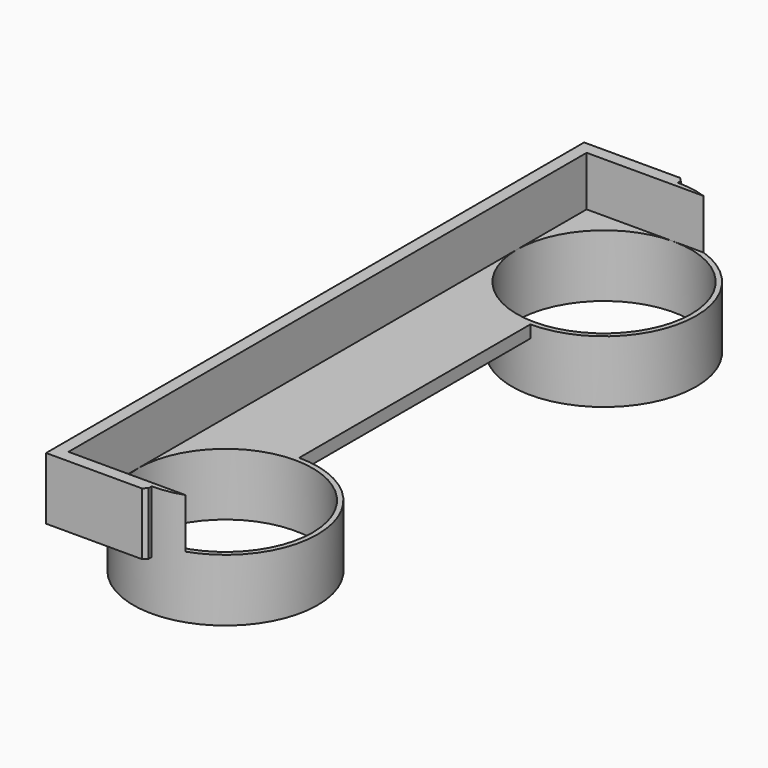
from build123d import *

# Parameters (mm, degrees)
CYLINDER002_R     = 35
CYLINDER002_DEPTH = 50
CYLINDER001_R     = 35
CYLINDER001_DEPTH = 50
BOX001_W          = 102
BOX001_H          = 260
BOX001_DEPTH      = 50
CYLINDER_R        = 37
CYLINDER_DEPTH    = 45
CYLINDER003_R     = 37
CYLINDER003_DEPTH = 45
BOX_W             = 40
BOX_H             = 270
BOX_DEPTH         = 25
CHAMFER_SIZE      = 1.5


with BuildPart() as cylinder002:
    # Cylinder002 → Cylinder002 (new body)
    with BuildSketch(Plane(origin=(40, 230, -45), x_dir=(1, 0, 0), z_dir=(0, 0, 1))):
        Circle(CYLINDER002_R)
    extrude(amount=CYLINDER002_DEPTH)


with BuildPart() as cylinder001:
    # Cylinder001 → Cylinder001 (new body)
    with BuildSketch(Plane(origin=(40, 40, -45), x_dir=(1, 0, 0), z_dir=(0, 0, 1))):
        Circle(CYLINDER001_R)
    extrude(amount=CYLINDER001_DEPTH)


with BuildPart() as main_cutout:
    # Box001 → Box001 (new body)
    with BuildSketch(Plane(origin=(5, 5, 5), x_dir=(1, 0, 0), z_dir=(0, 0, 1))):
        with Locations((51, 130)):
            Rectangle(BOX001_W, BOX001_H)
    extrude(amount=BOX001_DEPTH)


with BuildPart() as cylinder:
    # Cylinder → Cylinder (new body)
    with BuildSketch(Plane(origin=(40, 40, -20), x_dir=(1, 0, 0), z_dir=(0, 0, 1))):
        Circle(CYLINDER_R)
    extrude(amount=CYLINDER_DEPTH)


with BuildPart() as cylinder003:
    # Cylinder003 → Cylinder003 (new body)
    with BuildSketch(Plane(origin=(40, 230, -20), x_dir=(1, 0, 0), z_dir=(0, 0, 1))):
        Circle(CYLINDER003_R)
    extrude(amount=CYLINDER003_DEPTH)


with BuildPart() as chamfer_body:
    # Box → Box (new body)
    with BuildSketch(Plane.XY):
        with Locations((20, 135)):
            Rectangle(BOX_W, BOX_H)
    extrude(amount=BOX_DEPTH)

    # Fusion: union Cylinder, Cylinder003
    add(cylinder.part)
    add(cylinder003.part)

    # Cut: cut Main cutout
    add(main_cutout.part, mode=Mode.SUBTRACT)

    # Cut001: cut Cylinder001
    add(cylinder001.part, mode=Mode.SUBTRACT)

    # Cut002: cut Cylinder002
    add(cylinder002.part, mode=Mode.SUBTRACT)

    # Chamfer
    chamfer_edges = [chamfer_body.edges().sort_by_distance(p)[0] for p in [
        (40, 0, 12.5),
        (40, 270, 12.5),
    ]]
    chamfer(chamfer_edges, length=CHAMFER_SIZE)


solid = chamfer_body.part
